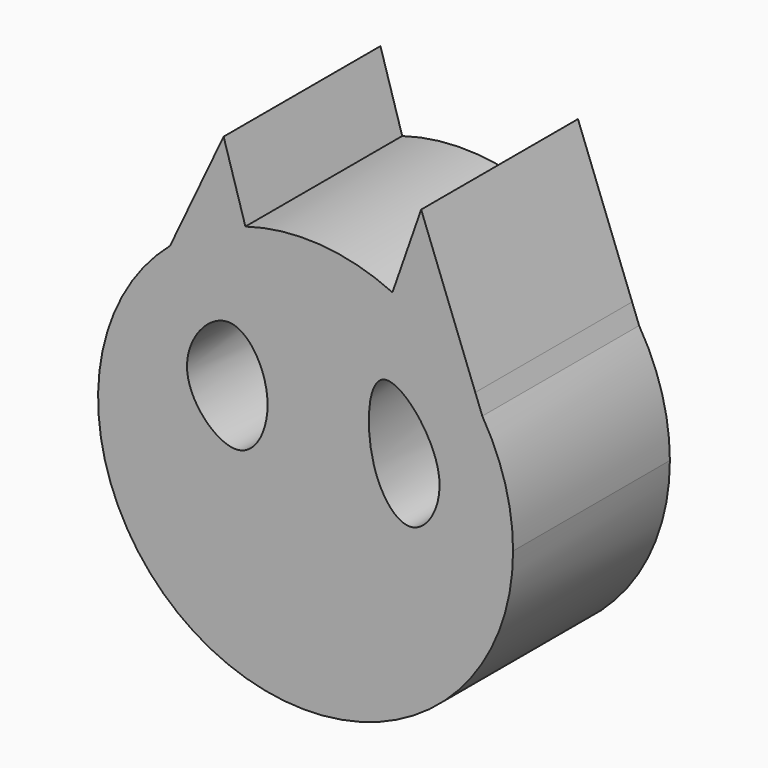
from build123d import *

# Parameters (mm, degrees)
F1_DEPTH      = 25.4
F4_DEPTH      = 25.4
F4_DEPTH_BACK = 25.4


with BuildPart() as f1:
    # F0 (on Front) → F1 (new body)
    with BuildSketch(Plane.XZ):
        with BuildLine():
            Line((-38.8674177229, 43.7969453633), (-45.8054386887, 29.0883398254))
            ThreePointArc((-45.8054386887, 29.0883398254), (-41.2071804211, 32.2823378336), (-36.0471665706, 34.4548615813))
            Line((-36.0471665706, 34.4548615813), (-38.8674177229, 43.7969453633))
        make_face()
        with BuildLine():
            ThreePointArc((-36.0471665706, 34.4548615813), (-41.2071804211, 32.2823378336), (-45.8054386887, 29.0883398254))
            ThreePointArc((-45.8054386887, 29.0883398254), (-39.451754684, -15.7228317616), (-1.3612498151, 8.7214689702))
            ThreePointArc((-1.3612498151, 8.7214689702), (-2.3773821218, 16.0435236141), (-5.3489792102, 22.812173392))
            ThreePointArc((-5.3489792102, 22.812173392), (-10.4068166043, 28.8367686087), (-16.9917411152, 33.1398182034))
            ThreePointArc((-16.9917411152, 33.1398182034), (-26.3987489938, 35.5463941766), (-36.0471665706, 34.4548615813))
        make_face()
        with BuildLine():
            Line((-13.2718011737, 43.7969453633), (-16.9917411152, 33.1398182034))
            ThreePointArc((-16.9917411152, 33.1398182034), (-10.4068166043, 28.8367686087), (-5.3489792102, 22.812173392))
            Line((-5.3489792102, 22.812173392), (-6.2567060813, 25.2164229751))
            Line((-6.2567060813, 25.2164229751), (-13.2718011737, 43.7969453633))
        make_face()
    extrude(amount=F1_DEPTH)

    # F3 (on face) → F4 (cut, two sides)
    with BuildSketch(Plane.XZ.offset(25.4)) as f4_sk:
        with BuildLine():
            add(Edge.make_bspline(
                [(-43.6015054584, 15.6709384173), (-43.8301012215, 19.2130171989), (-37.9776729192, 26.4504401405), (-31.2640295651, 15.8171303164), (-36.3976958419, 5.1570202595), (-43.3644576515, 11.9978956825), (-43.6015054584, 15.6709384173)],
                knots=[0, 0, 0, 0, 0.2514936223, 0.5010664949, 0.7392077141, 1, 1, 1, 1], degree=3))
        make_face()
        with BuildLine():
            add(Edge.make_bspline(
                [(-19.399119541, 12.6649094746), (-20.5583896188, 16.7179968612), (-19.9003224656, 28.0124505421), (-8.1295193877, 14.6423829602), (-14.2177906593, 4.3978450265), (-18.4132153869, 9.2179511098), (-19.399119541, 12.6649094746)],
                knots=[0, 0, 0, 0, 0.2653381809, 0.5400270912, 0.7743424765, 1, 1, 1, 1], degree=3))
        make_face()
    extrude(amount=F4_DEPTH, mode=Mode.SUBTRACT)
    extrude(f4_sk.sketch, amount=-F4_DEPTH_BACK, mode=Mode.SUBTRACT)


solid = f1.part
